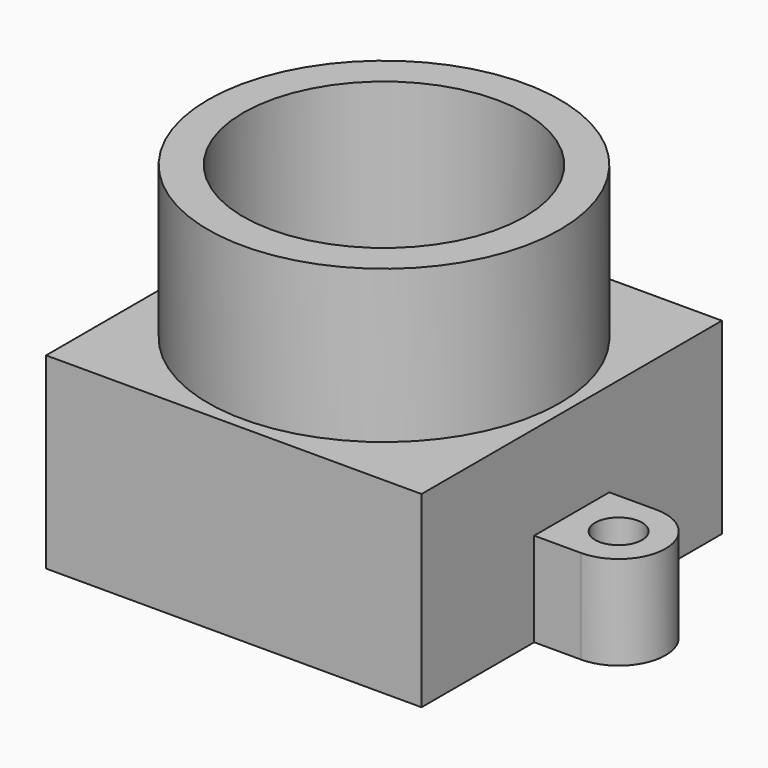
from build123d import *

# Parameters (mm, degrees)
F0_R     = 7.5
F0_R_2   = 6
F1_DEPTH = 14.5
F2_DEPTH = 8
F0_R_3   = 1
F3_DEPTH = 4


with BuildPart() as f1:
    # F0 (on Top) → F1 (new body)
    with BuildSketch(Plane.XY):
        Circle(F0_R)
        Circle(F0_R_2, mode=Mode.SUBTRACT)
    extrude(amount=F1_DEPTH)

    # F0 (on Top) → F2 (join)
    with BuildSketch(Plane.XY):
        Polygon((8, 2), (8, 8), (-8, 8), (-8, 2), (-8, -2), (-8, -8), (8, -8), (8, -2), align=None)
        Circle(F0_R, mode=Mode.SUBTRACT)
    extrude(amount=F2_DEPTH)

    # F0 (on Top) → F3 (join)
    with BuildSketch(Plane.XY):
        with BuildLine():
            Line((-8, -2), (-8, 2))
            Line((-8, 2), (-10, 2))
            ThreePointArc((-10, 2), (-12, 0), (-10, -2))
            Line((-10, -2), (-8, -2))
        make_face()
        with Locations((-10, 0)):
            Circle(F0_R_3, mode=Mode.SUBTRACT)
        with BuildLine():
            Line((10, 2), (8, 2))
            Line((8, 2), (8, -2))
            Line((8, -2), (10, -2))
            ThreePointArc((10, -2), (12, 0), (10, 2))
        make_face()
        with Locations((10, 0)):
            Circle(F0_R_3, mode=Mode.SUBTRACT)
    extrude(amount=F3_DEPTH)


solid = f1.part
